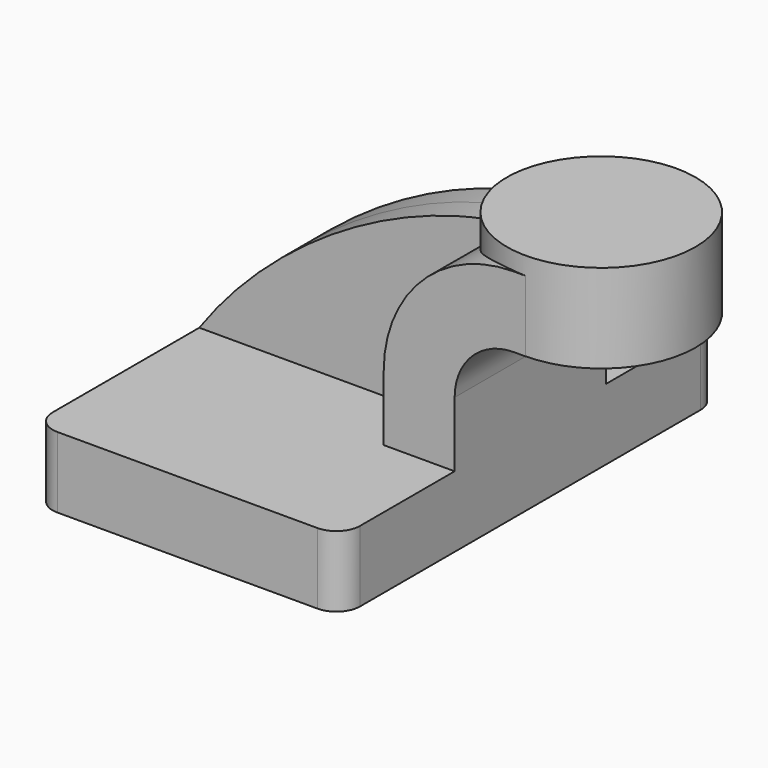
from build123d import *

# Parameters (mm, degrees)
F1_DEPTH = 63.5
F2_DEPTH = 25.4
F3_DEPTH = 7.9375
F5_R     = 6.35


with BuildPart() as f1:
    # F0 (on Front) → F1 (new body, symmetric)
    with BuildSketch(Plane.XZ):
        Polygon((-41.275, -9.525), (41.275, -9.525), (41.275, 9.525), (22.225, 9.525), (-41.275, 9.525), align=None)
    extrude(amount=F1_DEPTH, both=True)

    # F0 (on Front) → F2 (join, symmetric)
    with BuildSketch(Plane.XZ):
        with BuildLine():
            Line((22.225, 9.525), (41.275, 9.525))
            Line((41.275, 9.525), (41.275, 27.0002))
            ThreePointArc((41.275, 27.0002), (45.92468, 38.22552), (57.15, 42.8752))
            Line((57.15, 42.8752), (60.325, 42.8752))
            Line((60.325, 42.8752), (60.325, 61.9252))
            Line((60.325, 61.9252), (57.15, 61.9252))
            ThreePointArc((57.15, 61.9252), (32.454296, 51.695904), (22.225, 27.0002))
            Line((22.225, 27.0002), (22.225, 9.525))
        make_face()
    extrude(amount=F2_DEPTH, both=True)

    # F0 (on Front) → F3 (join, symmetric)
    with BuildSketch(Plane.XZ):
        with BuildLine():
            add(Edge.make_bspline(
                [(-41.275, 9.525), (-19.508036, 40.293224), (20.560727, 63.729674), (57.15, 61.9252)],
                knots=[0, 0, 0, 0, 111.504536, 111.504536, 111.504536, 111.504536], degree=3))
            Line((-41.275, 9.525), (22.225, 9.525))
            Line((22.225, 9.525), (22.225, 27.0002))
            ThreePointArc((22.225, 27.0002), (32.454296, 51.695904), (57.15, 61.9252))
        make_face()
    extrude(amount=F3_DEPTH, both=True)

    # F0 (on Front) → F4 (revolve)
    with BuildSketch(Plane.XZ):
        Polygon((60.325, 66.675), (60.325, 61.9252), (60.325, 42.8752), (85.666397, 42.8752), (85.666397, 66.675), align=None)
    revolve(axis=Axis((60.325, 0, 52.3875), (0, 0, 1)))

    # F5
    f5_edges = [f1.edges().sort_by_distance(p)[0] for p in [
        (-41.275, -63.5, 0),
        (41.275, -63.5, 0),
        (41.275, 63.5, 0),
        (-41.275, 63.5, 0),
    ]]
    fillet(f5_edges, radius=F5_R)


solid = f1.part
